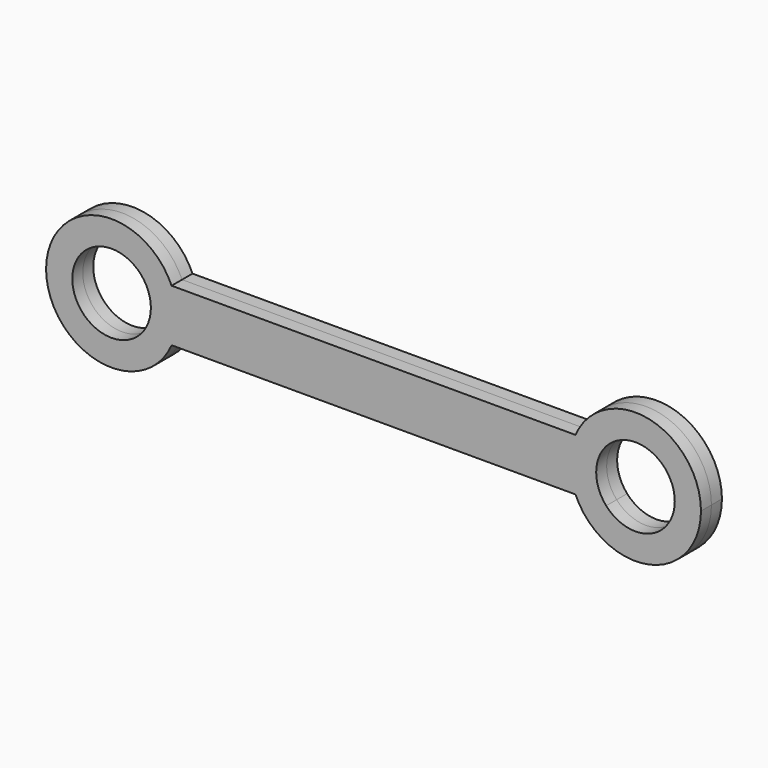
from build123d import *

# Parameters (mm, degrees)
F1_DEPTH = 5


with BuildPart() as f1:
    # F0 (on Front) → F1 (new body, symmetric)
    with BuildSketch(Plane.XZ):
        with BuildLine():
            ThreePointArc((250.235023126, 20.4724122211), (240.5873544726, 6.4598268367), (224.0546832385, 10.4724122211))
            Line((224.0546832385, 10.4724122211), (212.3221446512, 10.4724122211))
            ThreePointArc((212.3221446512, 10.4724122211), (240.3427642182, -4.0002456021), (260.235023126, 20.4724122211))
            ThreePointArc((260.235023126, 20.4724122211), (240.3427642182, 44.9450700444), (212.3221446512, 30.4724122211))
            Line((212.3221446512, 30.4724122211), (224.0546832385, 30.4724122211))
            ThreePointArc((224.0546832385, 30.4724122211), (240.5873544726, 34.4849976056), (250.235023126, 20.4724122211))
        make_face()
        with BuildLine():
            Line((212.3221446512, 10.4724122211), (224.0546832385, 10.4724122211))
            ThreePointArc((224.0546832385, 10.4724122211), (220.235023126, 20.4724122211), (224.0546832385, 30.4724122211))
            Line((224.0546832385, 30.4724122211), (212.3221446512, 30.4724122211))
            ThreePointArc((212.3221446512, 30.4724122211), (210.235023126, 20.4724122211), (212.3221446512, 10.4724122211))
        make_face()
        with BuildLine():
            Line((58.1479016008, 10.4724122211), (212.3221446512, 10.4724122211))
            ThreePointArc((212.3221446512, 10.4724122211), (210.235023126, 20.4724122211), (212.3221446512, 30.4724122211))
            Line((212.3221446512, 30.4724122211), (58.1479016008, 30.4724122211))
            ThreePointArc((58.1479016008, 30.4724122211), (59.7076809493, 25.5801533134), (60.235023126, 20.4724122211))
            ThreePointArc((60.235023126, 20.4724122211), (59.7076809493, 15.3646711289), (58.1479016008, 10.4724122211))
        make_face()
        with BuildLine():
            Line((46.4153630135, 10.4724122211), (58.1479016008, 10.4724122211))
            ThreePointArc((58.1479016008, 10.4724122211), (59.7076809493, 15.3646711289), (60.235023126, 20.4724122211))
            ThreePointArc((60.235023126, 20.4724122211), (59.7076809493, 25.5801533134), (58.1479016008, 30.4724122211))
            Line((58.1479016008, 30.4724122211), (46.4153630135, 30.4724122211))
            ThreePointArc((46.4153630135, 30.4724122211), (49.2476085104, 25.8247435677), (50.235023126, 20.4724122211))
            ThreePointArc((50.235023126, 20.4724122211), (49.2476085104, 15.1200808745), (46.4153630135, 10.4724122211))
        make_face()
        with BuildLine():
            ThreePointArc((58.1479016008, 30.4724122211), (10.235023126, 20.4724122211), (58.1479016008, 10.4724122211))
            Line((58.1479016008, 10.4724122211), (46.4153630135, 10.4724122211))
            ThreePointArc((46.4153630135, 10.4724122211), (20.235023126, 20.4724122211), (46.4153630135, 30.4724122211))
            Line((46.4153630135, 30.4724122211), (58.1479016008, 30.4724122211))
        make_face()
    extrude(amount=F1_DEPTH, both=True)


with BuildPart() as f2_1:
    # F2: copy of F1
    add(f1.part)


solid = Compound([f1.part, f2_1.part])
